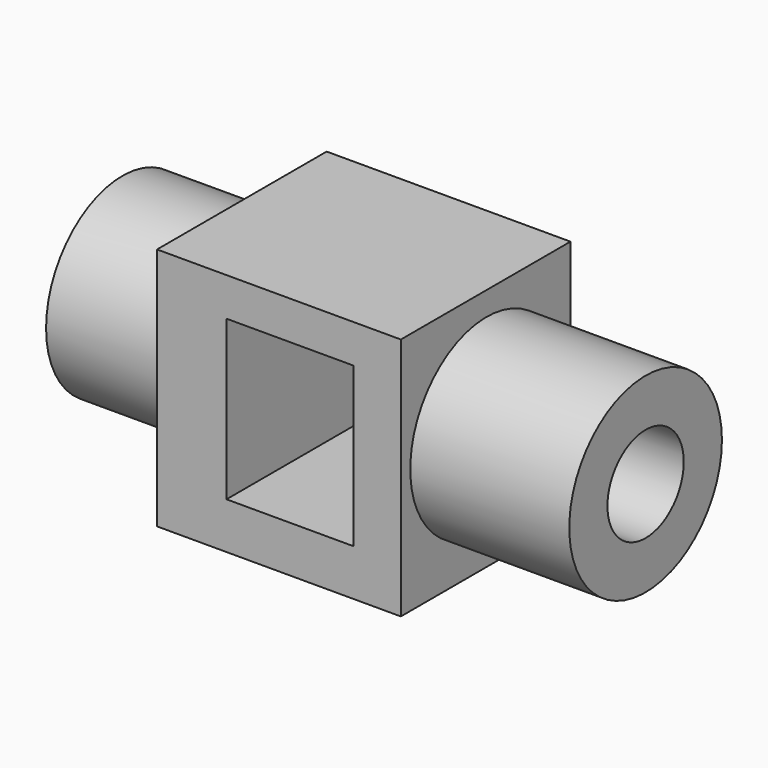
from build123d import *

# Parameters (mm, degrees)
F0_W      = 46
F0_H      = 40
F1_DEPTH  = 46
F2_R      = 9
F3_DEPTH  = 30
F4_R      = 9
F5_DEPTH  = 30
F6_W      = 24
F6_H      = 30
F7_DEPTH  = 46
F9_R      = 18
F10_DEPTH = 25
F8_R      = 9
F11_DEPTH = 30
F12_R     = 18
F13_DEPTH = 30
F14_R     = 9
F15_DEPTH = 30


with BuildPart() as f1:
    # F0 (on Top) → F1 (new body)
    with BuildSketch(Plane.XY):
        with Locations((-30.6679215729, -38.7895996869)):
            Rectangle(F0_W, F0_H)
    extrude(amount=F1_DEPTH)

    # F2 (on face) → F3 (join)
    with BuildSketch(Plane(origin=(-53.6679215729, 0, 0), x_dir=(0, -1, 0), z_dir=(-1, 0, 0))):
        with Locations((35.7066951692, 22.7147787809)):
            Circle(F2_R)
    extrude(amount=F3_DEPTH)

    # F4 (on face) → F5 (join)
    with BuildSketch(Plane.YZ.offset(-7.6679215729)):
        with Locations((-38.5694056749, 23.5416200012)):
            Circle(F4_R)
    extrude(amount=F5_DEPTH)

    # F6 (on face) → F7 (cut)
    with BuildSketch(Plane.XZ.offset(58.7895996869)):
        with Locations((-28.5605824441, 23.7626548484)):
            Rectangle(F6_W, F6_H)
    extrude(amount=-F7_DEPTH, mode=Mode.SUBTRACT)

    # F9 (on face) → F10 (join)
    with BuildSketch(Plane(origin=(-53.6679215729, 0, 0), x_dir=(0, -1, 0), z_dir=(-1, 0, 0))):
        with Locations((35.7066951692, 22.7147787809)):
            Circle(F9_R)
    extrude(amount=F10_DEPTH)

    # F8 (on face) → F11 (cut)
    with BuildSketch(Plane(origin=(-83.6679215729, 0, 0), x_dir=(0, -1, 0), z_dir=(-1, 0, 0))):
        with Locations((35.7066951692, 22.7147787809)):
            Circle(F8_R)
    extrude(amount=-F11_DEPTH, mode=Mode.SUBTRACT)

    # F12 (on face) → F13 (join)
    with BuildSketch(Plane.YZ.offset(-7.6679215729)):
        with Locations((-38.5694056749, 23.5416200012)):
            Circle(F12_R)
    extrude(amount=F13_DEPTH)

    # F14 (on face) → F15 (cut)
    with BuildSketch(Plane.YZ.offset(22.3320784271)):
        with Locations((-38.5694056749, 23.5416200012)):
            Circle(F14_R)
    extrude(amount=-F15_DEPTH, mode=Mode.SUBTRACT)


solid = f1.part
